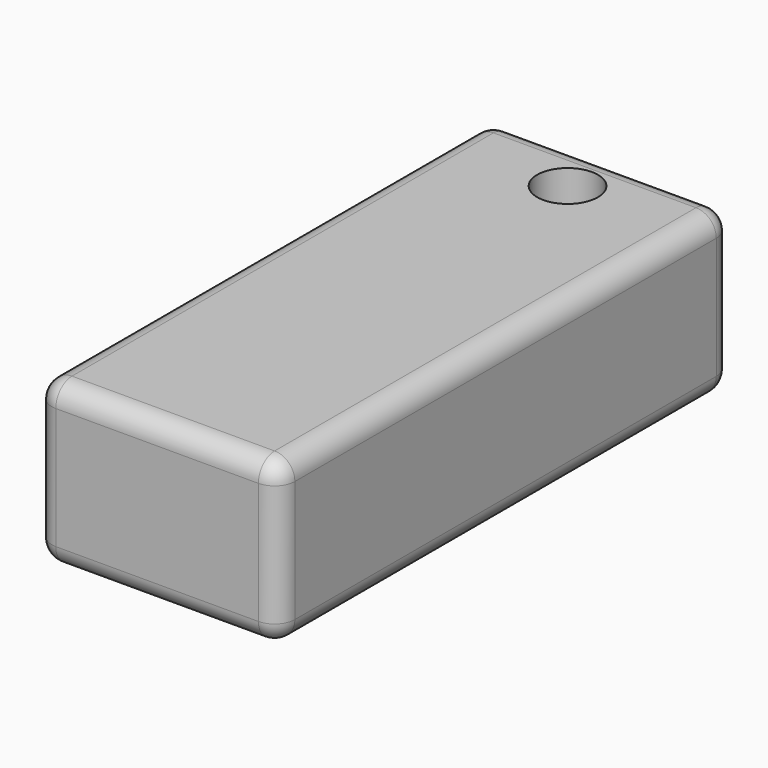
from build123d import *

# Parameters (mm, degrees)
F0_W     = 12
F0_H     = 28
F0_R     = 1.5
F1_DEPTH = 8
F2_R     = 1


with BuildPart() as f1:
    # F0 (on Top) → F1 (new body)
    with BuildSketch(Plane.XY):
        Rectangle(F0_W, F0_H)
        with Locations((0, 11.324412)):
            Circle(F0_R, mode=Mode.SUBTRACT)
    extrude(amount=F1_DEPTH)

    # F2
    f2_edges = [f1.edges().sort_by_distance(p)[0] for p in [
        (0, 14, 8),
        (6, 0, 8),
        (-6, 0, 8),
        (0, -14, 8),
        (6, 14, 4),
        (-6, 14, 4),
        (0, 14, 0),
        (6, 0, 0),
        (-6, 0, 0),
        (0, -14, 0),
        (6, -14, 4),
        (-6, -14, 4),
    ]]
    fillet(f2_edges, radius=F2_R)


solid = f1.part
